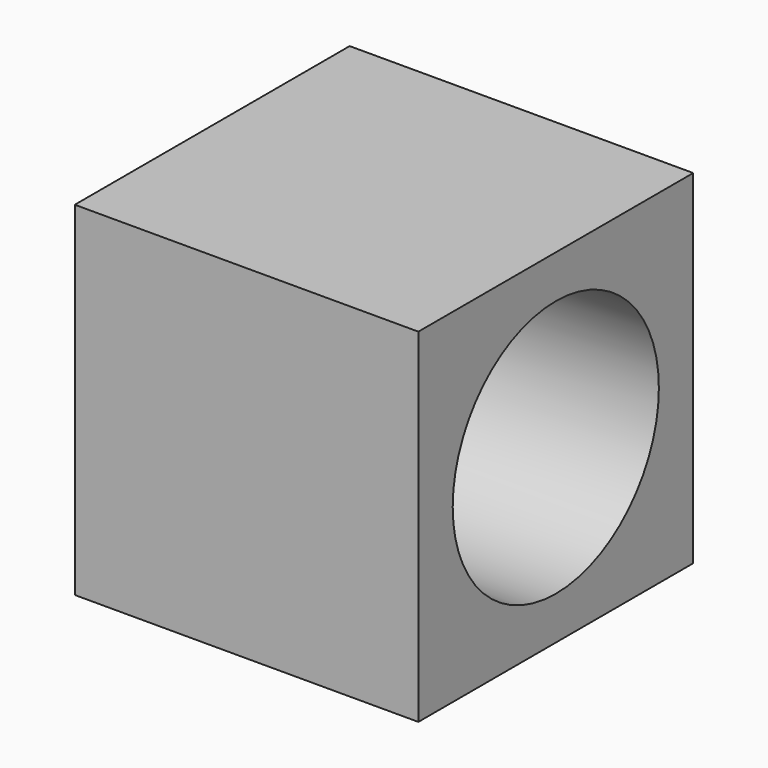
from build123d import *

# Parameters (mm, degrees)
F0_W     = 25.4
F0_H     = 25.4
F1_DEPTH = 25.4
F3_D     = 19.05
F3_DEPTH = 12.7
F3_TIP   = 5.7231973962


with BuildPart() as f1:
    # F0 (on Right) → F1 (new body)
    with BuildSketch(Plane.YZ):
        with Locations((-12.7, 12.7)):
            Rectangle(F0_W, F0_H)
    extrude(amount=F1_DEPTH)

    # F3
    with Locations(Plane.YZ.offset(25.4)):
        with Locations((-12.7, 12.7)):
            Hole(F3_D / 2, depth=F3_DEPTH)
            with Locations((0, 0, -(F3_DEPTH + F3_TIP / 2))):  # 118° drill point
                Cone(0, F3_D / 2, F3_TIP, mode=Mode.SUBTRACT)


solid = f1.part
